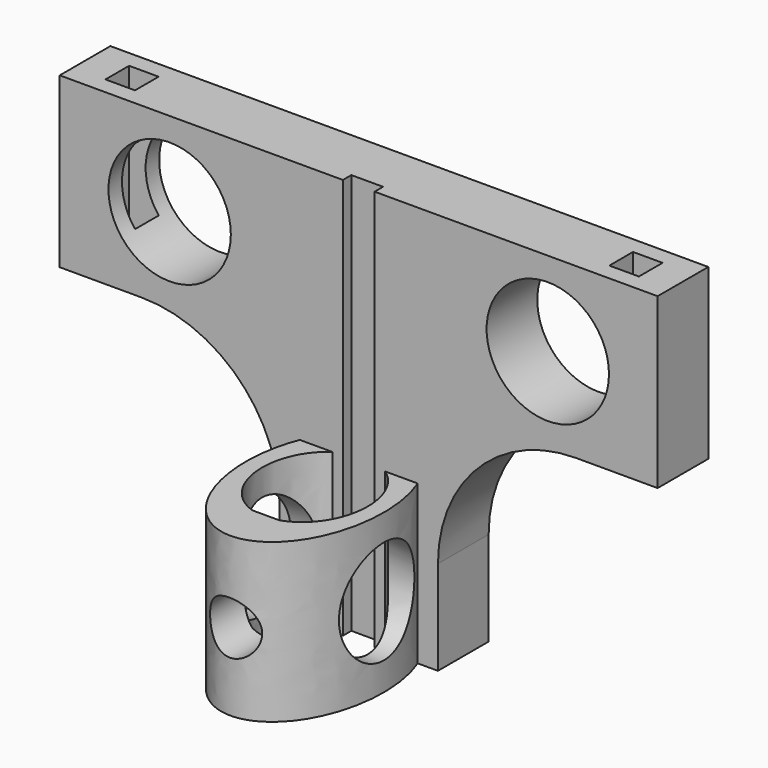
from build123d import *

# Parameters (mm, degrees)
COPYSKETCH004_R      = 5.794456
PAD003_DEPTH         = 6
SKETCH006_W          = 2.8
SKETCH006_H          = 2.8
POCKET002_DEPTH      = 38.001
PAD004_DEPTH         = 15
SKETCH008_W          = 3
SKETCH008_H          = 38
POCKET003_DEPTH      = 1
POCKET004_DEPTH      = 9
POCKET004_DEPTH_BACK = 100
SKETCH011_R          = 2.5
POCKET005_DEPTH      = 10


with BuildPart() as part:
    # CopySketch004 → Pad003 (new body)
    with BuildSketch(Plane.XZ.offset(13)):
        with BuildLine():
            Line((16.678686, 38), (73.301812, 38))
            Line((73.301812, 38), (73.301812, 22))
            Line((73.301812, 22), (65.567473, 22))
            ThreePointArc((65.567473, 22), (56.327374, 18.172626), (52.5, 8.932527))
            Line((52.5, 8.932527), (52.5, 0))
            Line((52.5, 0), (37.5, 0))
            Line((37.5, 0), (37.5, 8.932527))
            ThreePointArc((37.5, 8.932527), (33.672626, 18.172626), (24.432527, 22))
            Line((24.432527, 22), (16.678686, 22))
            Line((16.678686, 22), (16.678686, 38))
        make_face()
        with Locations((27.089343, 30)):
            Circle(COPYSKETCH004_R, mode=Mode.SUBTRACT)
        with Locations((62.900906, 30)):
            Circle(COPYSKETCH004_R, mode=Mode.SUBTRACT)
    extrude(amount=PAD003_DEPTH)

    # Sketch006 (on Face1 of Pad003) → Pocket002 (cut, through all)
    with BuildSketch(Plane(origin=(0, -13, 38), x_dir=(-1, 0, 0), z_dir=(0, 0, 1))):
        with Locations((-21.128686, 3)):
            Rectangle(SKETCH006_W, SKETCH006_H)
        with Locations((-68.851812, 3)):
            Rectangle(SKETCH006_W, SKETCH006_H)
    extrude(amount=-POCKET002_DEPTH, mode=Mode.SUBTRACT)

    # Sketch007 (on Face18 of Pocket002) → Pad004 (join)
    with BuildSketch(Plane(origin=(0, -13, 0), x_dir=(1, 0, 0), z_dir=(0, 0, -1))):
        with BuildLine():
            add(Edge.make_bspline(
                [(45, 1.191511), (56.318229, 1.191511), (50.659114, 16.191511), (45, 31.191511), (39.340886, 16.191511), (33.681771, 1.191511), (45, 1.191511)],
                knots=[0, 0, 0, 2.094395, 2.094395, 4.18879, 4.18879, 6.283185, 6.283185, 6.283185], degree=2, weights=[1, 0.5, 1, 0.5, 1, 0.5, 1]))
        make_face()
        with BuildLine():
            add(Edge.make_bspline(
                [(43.746822, 17), (36.792332, 14.839385), (40.896166, 7.76393), (45, 0.688476), (49.103834, 7.76393), (53.207668, 14.839385), (46.253178, 17)],
                knots=[3.394929, 3.394929, 3.394929, 5.320433, 5.320433, 7.245937, 7.245937, 9.171441, 9.171441, 9.171441], degree=2, weights=[1, 0.571263, 1, 0.571263, 1, 0.571263, 1]))
            Line((46.253178, 17), (43.746822, 17))
        make_face(mode=Mode.SUBTRACT)
    extrude(amount=-PAD004_DEPTH)

    # Sketch008 (on Face4 of Pad004) → Pocket003 (cut)
    with BuildSketch(Plane.XZ.offset(19)):
        with Locations((45, 19)):
            Rectangle(SKETCH008_W, SKETCH008_H)
    extrude(amount=-POCKET003_DEPTH, mode=Mode.SUBTRACT)

    # Sketch010 (on DatumPlane) → Pocket004 (cut, two sides)
    with BuildSketch(Plane(origin=(45, -24.191511, 0), x_dir=(0, 1, 0), z_dir=(-1, 0, 0))) as pocket004_sk:
        with BuildLine():
            add(Edge.make_bspline(
                [(0, -12.504121), (7.732213, -12.504121), (3.866106, -5.1293), (0, 2.24552), (-3.866106, -5.1293), (-7.732213, -12.504121), (0, -12.504121)],
                knots=[0, 0, 0, 2.094395, 2.094395, 4.18879, 4.18879, 6.283185, 6.283185, 6.283185], degree=2, weights=[1, 0.5, 1, 0.5, 1, 0.5, 1]))
        make_face()
    extrude(amount=-POCKET004_DEPTH, mode=Mode.SUBTRACT)
    extrude(pocket004_sk.sketch, amount=POCKET004_DEPTH_BACK, mode=Mode.SUBTRACT)

    # Sketch011 (on DatumPlane) → Pocket005 (cut)
    with BuildSketch(Plane(origin=(45, -28.830382, 7.470463), x_dir=(-8e-06, -0.014169, 0.9999), z_dir=(1e-06, 0.9999, 0.014169))):
        with Locations((-0.075884, -0.06639)):
            Circle(SKETCH011_R)
    extrude(amount=-POCKET005_DEPTH, mode=Mode.SUBTRACT)


solid = part.part
